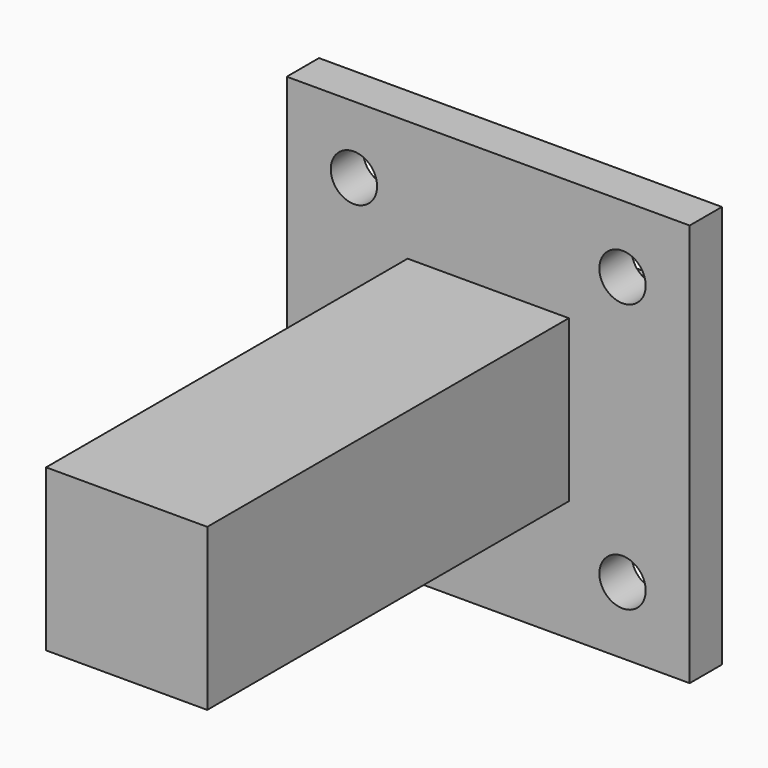
from build123d import *

# Parameters (mm, degrees)
SKETCH_W        = 12
SKETCH_H        = 12
PAD_DEPTH       = 41
SKETCH001_W     = 7.5
SKETCH001_H     = 3.75
POCKET_DEPTH    = 36.1
SKETCH003_W     = 12
SKETCH003_H     = 3
PAD001_DEPTH    = 9
PAD001_FACE11_W = 3
PAD001_FACE11_H = 9
PAD002_DEPTH    = 9
PAD002_FACE11_W = 3
PAD002_FACE11_H = 9
PAD003_DEPTH    = 21
PAD003_FACE17_W = 3
PAD003_FACE17_H = 9
PAD004_DEPTH    = 21
PAD004_FACE12_W = 3
PAD004_FACE12_H = 9
PAD005_DEPTH    = 9
PAD005_FACE17_W = 3
PAD005_FACE17_H = 9
PAD006_DEPTH    = 12
SKETCH004_R     = 1.725
POCKET001_DEPTH = 36.651


with BuildPart() as part:
    # Sketch → Pad (new body)
    with BuildSketch(Plane.XZ):
        Rectangle(SKETCH_W, SKETCH_H)
    extrude(amount=PAD_DEPTH)

    # Sketch001 (on Face5 of Pad) → Pocket (cut)
    with BuildSketch(Plane(origin=(0, 0, 0), x_dir=(1, 0, 0), z_dir=(0, 1, 0))):
        Rectangle(SKETCH001_W, SKETCH001_H)
    extrude(amount=-POCKET_DEPTH, mode=Mode.SUBTRACT)

    # Sketch003 (on Face1 of Pocket) → Pad001 (join)
    with BuildSketch(Plane(origin=(0, 0, 6), x_dir=(-1, 0, 0), z_dir=(0, 0, 1))):
        with Locations((0, 5.85)):
            Rectangle(SKETCH003_W, SKETCH003_H)
    extrude(amount=PAD001_DEPTH)

    # Pad001 Face11 → Pad002 (add)
    with BuildSketch(Plane(origin=(6, -5.85, 10.5), x_dir=(0, -1, 0), z_dir=(1, 0, 0))):
        Rectangle(PAD001_FACE11_W, PAD001_FACE11_H)
    extrude(amount=PAD002_DEPTH)

    # Pad002 Face11 → Pad003 (add)
    with BuildSketch(Plane(origin=(10.5, -5.85, 6), x_dir=(0, -1, 0), z_dir=(0, 0, -1))):
        Rectangle(PAD002_FACE11_W, PAD002_FACE11_H)
    extrude(amount=PAD003_DEPTH)

    # Pad003 Face17 → Pad004 (add)
    with BuildSketch(Plane(origin=(6, -5.85, -10.5), x_dir=(0, 1, 0), z_dir=(-1, 0, 0))):
        Rectangle(PAD003_FACE17_W, PAD003_FACE17_H)
    extrude(amount=PAD004_DEPTH)

    # Pad004 Face12 → Pad005 (add)
    with BuildSketch(Plane(origin=(-6, -5.85, 10.5), x_dir=(0, 1, 0), z_dir=(-1, 0, 0))):
        Rectangle(PAD004_FACE12_W, PAD004_FACE12_H)
    extrude(amount=PAD005_DEPTH)

    # Pad005 Face17 → Pad006 (add)
    with BuildSketch(Plane(origin=(-10.5, -5.85, 6), x_dir=(0, -1, 0), z_dir=(0, 0, -1))):
        Rectangle(PAD005_FACE17_W, PAD005_FACE17_H)
    extrude(amount=PAD006_DEPTH)

    # Sketch004 (on Face13 of Pad006) → Pocket001 (cut, through all)
    with BuildSketch(Plane(origin=(0, -4.35, 0), x_dir=(1, 0, 0), z_dir=(0, 1, 0))):
        with Locations((-10, 10)):
            Circle(SKETCH004_R)
        with Locations((10, 10)):
            Circle(SKETCH004_R)
        with Locations((10, -10)):
            Circle(SKETCH004_R)
        with Locations((-10, -10)):
            Circle(SKETCH004_R)
    extrude(amount=-POCKET001_DEPTH, mode=Mode.SUBTRACT)


solid = part.part
